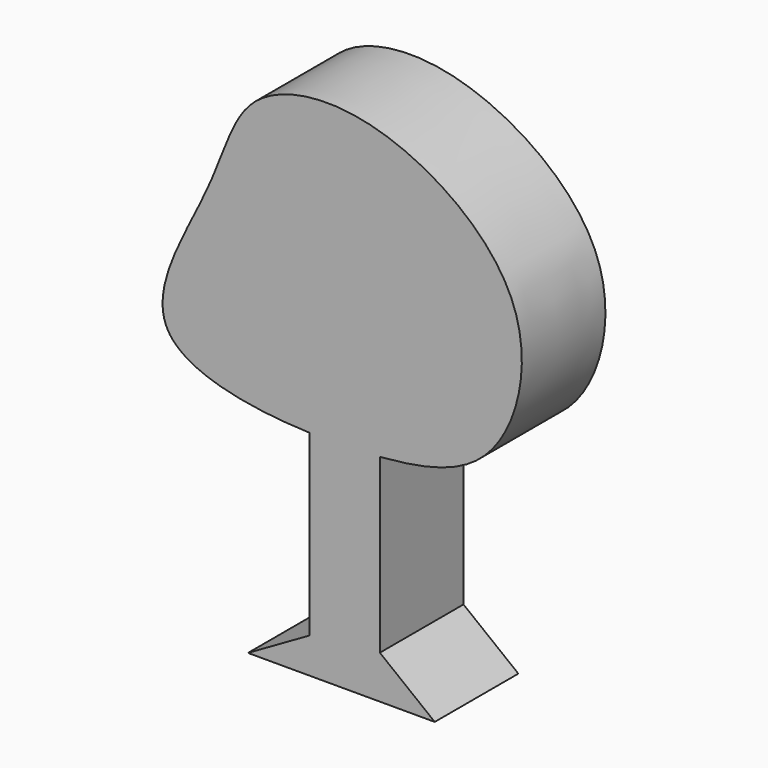
from build123d import *

# Parameters (mm, degrees)
F1_DEPTH = 23.368


with BuildPart() as f1:
    # F0 (on Front) → F1 (new body)
    with BuildSketch(Plane.XZ):
        with BuildLine():
            Line((0, 22.4845614284), (15.7683957368, 22.4845614284))
            Line((15.7683957368, 22.4845614284), (15.7683957368, 7.3001827113))
            add(Edge.make_bspline(
                [(15.7683957368, 7.3001827113), (28.5648202272, 8.3342720321), (44.7493518397, 13.6928671851), (52.5201538189, 51.7432175559), (14.4733529321, 76.6277749037), (-15.8979387151, 71.0857014797), (-20.3738383211, 48.0119389831), (-43.4750898591, 12.9902648829), (-13.7128408695, 7.392283087), (0, 6.9340453597)],
                knots=[0, 0, 0, 0, 0.1339779961, 0.2722779651, 0.4329393242, 0.5603244175, 0.6814002385, 0.8246350123, 0.9497979068, 0.9497979068, 0.9497979068, 0.9497979068], degree=3))
            Line((0, 6.9340453597), (0, 22.4845614284))
        make_face()
        with BuildLine():
            Line((15.7683957368, 7.3001827113), (15.7683957368, 22.4845614284))
            Line((15.7683957368, 22.4845614284), (0, 22.4845614284))
            Line((0, 22.4845614284), (0, 6.9340453597))
            add(Edge.make_bspline(
                [(0, 6.9340453597), (5.5001389773, 6.7502489306), (10.9735240918, 6.9127052901), (15.7683957368, 7.3001827113)],
                knots=[0.9497979068, 0.9497979068, 0.9497979068, 0.9497979068, 1, 1, 1, 1], degree=3))
        make_face()
        with BuildLine():
            Line((15.7683957368, -31.2447808683), (15.7683957368, 7.3001827113))
            add(Edge.make_bspline(
                [(0, 6.9340453597), (5.5001389773, 6.7502489306), (10.9735240918, 6.9127052901), (15.7683957368, 7.3001827113)],
                knots=[0.9497979068, 0.9497979068, 0.9497979068, 0.9497979068, 1, 1, 1, 1], degree=3))
            Line((0, 6.9340453597), (0, -32.9968258739))
            Line((0, -32.9968258739), (-13.7243438512, -40.8810228109))
            Line((-13.7243438512, -40.8810228109), (-2.9200734571, -40.8810228109))
            Line((-2.9200734571, -40.8810228109), (28.0326995999, -40.8810228109))
            Line((28.0326995999, -40.8810228109), (15.7683957368, -31.2447808683))
        make_face()
    extrude(amount=F1_DEPTH)


solid = f1.part
